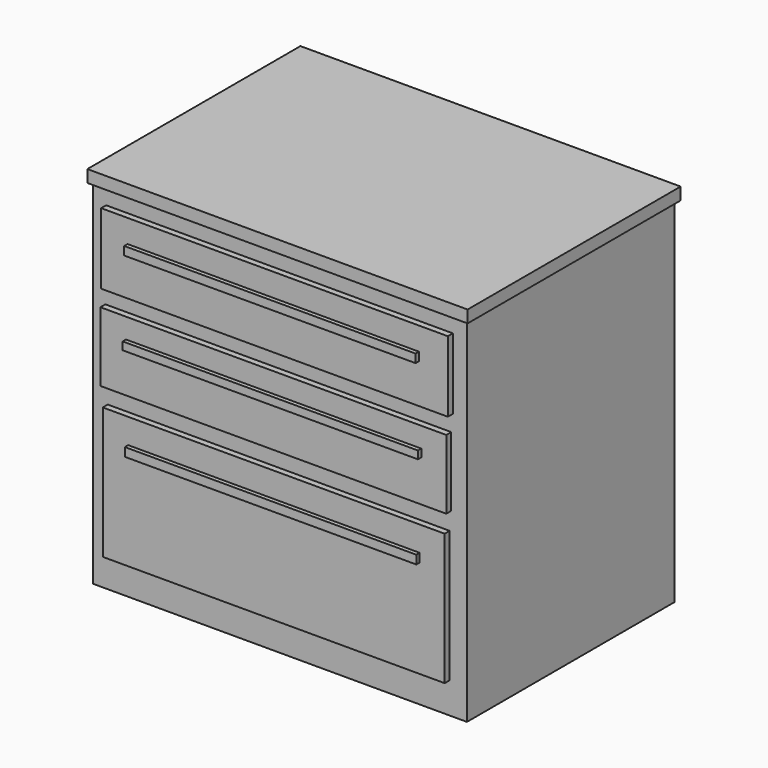
from build123d import *

# Parameters (mm, degrees)
F0_W      = 548.64
F0_H      = 381
F1_DEPTH  = 518.16
F2_W      = 558.0791532993
F2_H      = 390.8702135086
F2_W_2    = 548.64
F2_H_2    = 381
F3_DEPTH  = 17.9832
F4_W      = 508.8175535202
F4_H      = 104.0762960911
F5_W      = 507.6611340046
F5_H      = 101.7635166645
F6_W      = 501.8791407347
F6_H      = 193.1193843484
F7_DEPTH  = 9.144
F10_W     = 427.862867713
F10_H     = 12.6414000988
F9_W      = 433.3813935518
F9_H      = 11.4478170872
F8_W      = 427.6882261038
F8_H      = 12.3768150806
F11_DEPTH = 6.096


with BuildPart() as f1:
    # F0 (on Top) → F1 (new body)
    with BuildSketch(Plane.XY):
        Rectangle(F0_W, F0_H)
    extrude(amount=F1_DEPTH)

    # F2 (on face) → F3 (join)
    with BuildSketch(Plane.XY.offset(518.16)):
        with Locations((-0.2440661192, 0.519618392)):
            Rectangle(F2_W, F2_H)
        Rectangle(F2_W_2, F2_H_2, mode=Mode.SUBTRACT)
        Rectangle(F2_W_2, F2_H_2)
    extrude(amount=F3_DEPTH)

    # F4 (on face) + F5 (on face) + F6 (on face) → F7 (join)
    with BuildSketch(Plane.XZ.offset(190.5)):
        with Locations((-0.822275877, 443.328037858)):
            Rectangle(F4_W, F4_H)
    with BuildSketch(Plane.XZ.offset(190.5)):
        with Locations((-2.5568753481, 316.123649478)):
            Rectangle(F5_W, F5_H)
    with BuildSketch(Plane.XZ.offset(190.5)):
        with Locations((-1.9786730409, 142.0849226415)):
            Rectangle(F6_W, F6_H)
    extrude(amount=F7_DEPTH)

    # F10 (on face) + F9 (on face) + F8 (on face) → F11 (join)
    with BuildSketch(Plane.XZ.offset(199.644)):
        with Locations((-1.7024800181, 195.7238912582)):
            Rectangle(F10_W, F10_H)
    with BuildSketch(Plane.XZ.offset(199.644)):
        with Locations((-2.1058097482, 331.7696303129)):
            Rectangle(F9_W, F9_H)
    with BuildSketch(Plane.XZ.offset(199.644)):
        with Locations((-2.7256086469, 455.3973823786)):
            Rectangle(F8_W, F8_H)
    extrude(amount=F11_DEPTH)


solid = f1.part
